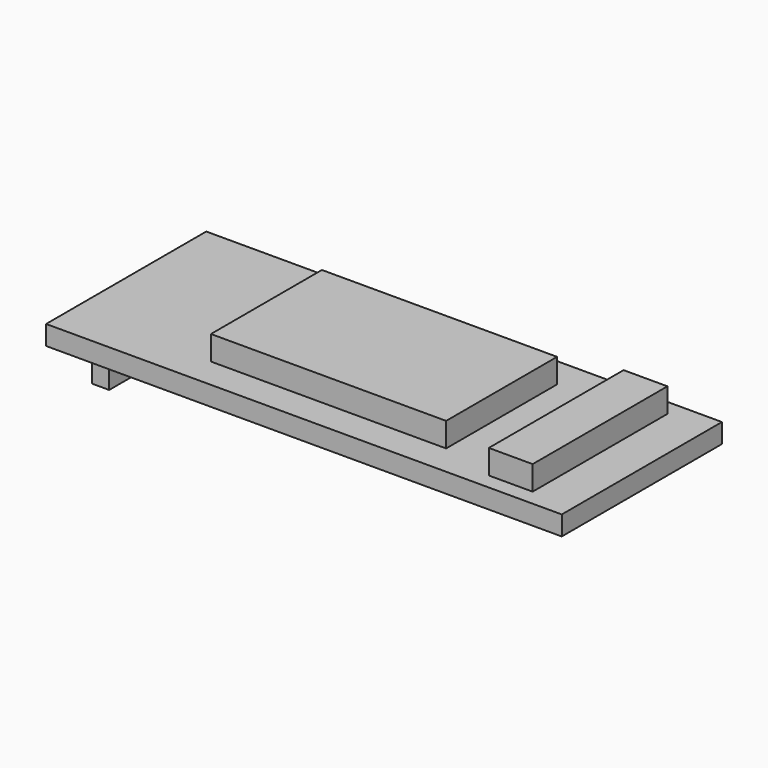
from build123d import *

# Parameters (mm, degrees)
F0_W     = 42.5
F0_H     = 16.5
F1_DEPTH = 1.6
F2_W     = 19.383784
F2_H     = 11.430836
F2_W_2   = 3.613464
F2_H_2   = 13.885942
F3_DEPTH = 2
F4_W     = 1.4
F4_H     = 12
F5_DEPTH = 3


with BuildPart() as f1:
    # F0 (on Top) → F1 (new body)
    with BuildSketch(Plane.XY):
        Rectangle(F0_W, F0_H)
    extrude(amount=F1_DEPTH)

    # F2 (on face) → F3 (join)
    with BuildSketch(Plane.XY.offset(1.6)):
        Rectangle(F2_W, F2_H)
        with Locations((15.997825, 0)):
            Rectangle(F2_W_2, F2_H_2)
    extrude(amount=F3_DEPTH)

    # F4 (on face) → F5 (join)
    with BuildSketch(Plane(origin=(0, 0, 0), x_dir=(1, 0, 0), z_dir=(0, 0, -1))):
        with Locations((-18.55, 0)):
            Rectangle(F4_W, F4_H)
    extrude(amount=F5_DEPTH)


solid = f1.part
